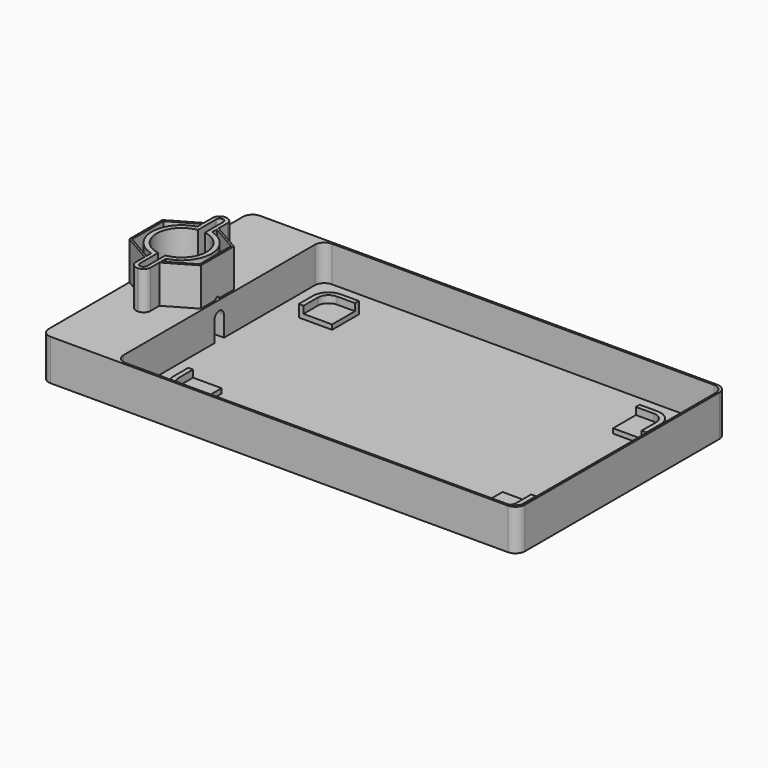
from build123d import *

# Parameters (mm, degrees)
F0_R      = 5
F1_DEPTH  = 2.2
F2_DEPTH  = 17.2
F4_DEPTH  = 20
F5_DEPTH  = 15.2
F7_DEPTH  = 16
F9_DEPTH  = 2
F10_DEPTH = 5
F12_DEPTH = 16
F14_DEPTH = 28


with BuildPart() as f1:
    # F0 (on Top) → F1 (new body)
    with BuildSketch(Plane.XY):
        with BuildLine():
            Line((-196, 0), (-4, 0))
            ThreePointArc((-4, 0), (-1.1715728753, 1.1715728753), (0, 4))
            Line((0, 4), (0, 106))
            ThreePointArc((0, 106), (-1.1715728753, 108.8284271247), (-4, 110))
            Line((-4, 110), (-196, 110))
            ThreePointArc((-196, 110), (-198.8284271247, 108.8284271247), (-200, 106))
            Line((-200, 106), (-200, 4))
            ThreePointArc((-200, 4), (-198.8284271247, 1.1715728753), (-196, 0))
        make_face()
        with BuildLine():
            Line((-170, 105.2), (-170, 59.5))
            Line((-170, 59.5), (-170, 50.5))
            Line((-170, 50.5), (-170, 4.8))
            ThreePointArc((-170, 4.8), (-171.1715728753, 1.9715728753), (-174, 0.8))
            Line((-174, 0.8), (-195.2, 0.8))
            ThreePointArc((-195.2, 0.8), (-198.0284271247, 1.9715728753), (-199.2, 4.8))
            Line((-199.2, 4.8), (-199.2, 105.2))
            ThreePointArc((-199.2, 105.2), (-198.0284271247, 108.0284271247), (-195.2, 109.2))
            Line((-195.2, 109.2), (-174, 109.2))
            ThreePointArc((-174, 109.2), (-171.1715728753, 108.0284271247), (-170, 105.2))
        make_face(mode=Mode.SUBTRACT)
        with BuildLine():
            ThreePointArc((-4.8, 109.2), (-1.9715728753, 108.0284271247), (-0.8, 105.2))
            Line((-0.8, 105.2), (-0.8, 4.8))
            ThreePointArc((-0.8, 4.8), (-1.9715728753, 1.9715728753), (-4.8, 0.8))
            Line((-4.8, 0.8), (-165.2, 0.8))
            ThreePointArc((-165.2, 0.8), (-168.0284271247, 1.9715728753), (-169.2, 4.8))
            Line((-169.2, 4.8), (-169.2, 105.2))
            ThreePointArc((-169.2, 105.2), (-168.0284271247, 108.0284271247), (-165.2, 109.2))
            Line((-165.2, 109.2), (-4.8, 109.2))
        make_face(mode=Mode.SUBTRACT)
        with BuildLine():
            Line((-0.8, 4.8), (-0.8, 105.2))
            ThreePointArc((-0.8, 105.2), (-1.9715728753, 108.0284271247), (-4.8, 109.2))
            Line((-4.8, 109.2), (-165.2, 109.2))
            ThreePointArc((-165.2, 109.2), (-168.0284271247, 108.0284271247), (-169.2, 105.2))
            Line((-169.2, 105.2), (-169.2, 4.8))
            ThreePointArc((-169.2, 4.8), (-168.0284271247, 1.9715728753), (-165.2, 0.8))
            Line((-165.2, 0.8), (-4.8, 0.8))
            ThreePointArc((-4.8, 0.8), (-1.9715728753, 1.9715728753), (-0.8, 4.8))
        make_face()
        with BuildLine():
            ThreePointArc((-179.6380973526, 50.5), (-192, 55), (-179.6380973526, 59.5))
            Line((-179.6380973526, 59.5), (-170, 59.5))
            Line((-170, 59.5), (-170, 105.2))
            ThreePointArc((-170, 105.2), (-171.1715728753, 108.0284271247), (-174, 109.2))
            Line((-174, 109.2), (-195.2, 109.2))
            ThreePointArc((-195.2, 109.2), (-198.0284271247, 108.0284271247), (-199.2, 105.2))
            Line((-199.2, 105.2), (-199.2, 4.8))
            ThreePointArc((-199.2, 4.8), (-198.0284271247, 1.9715728753), (-195.2, 0.8))
            Line((-195.2, 0.8), (-174, 0.8))
            ThreePointArc((-174, 0.8), (-171.1715728753, 1.9715728753), (-170, 4.8))
            Line((-170, 4.8), (-170, 50.5))
            Line((-170, 50.5), (-179.6380973526, 50.5))
        make_face()
        with BuildLine():
            ThreePointArc((-179.6380973526, 50.5), (-192, 55), (-179.6380973526, 59.5))
            Line((-179.6380973526, 59.5), (-170, 59.5))
            Line((-170, 59.5), (-170, 105.2))
            ThreePointArc((-170, 105.2), (-171.1715728753, 108.0284271247), (-174, 109.2))
            Line((-174, 109.2), (-195.2, 109.2))
            ThreePointArc((-195.2, 109.2), (-198.0284271247, 108.0284271247), (-199.2, 105.2))
            Line((-199.2, 105.2), (-199.2, 4.8))
            ThreePointArc((-199.2, 4.8), (-198.0284271247, 1.9715728753), (-195.2, 0.8))
            Line((-195.2, 0.8), (-174, 0.8))
            ThreePointArc((-174, 0.8), (-171.1715728753, 1.9715728753), (-170, 4.8))
            Line((-170, 4.8), (-170, 50.5))
            Line((-170, 50.5), (-179.6380973526, 50.5))
        make_face()
        with BuildLine():
            ThreePointArc((-179.6380973526, 50.5), (-178.4222603224, 52.6055604551), (-178, 55))
            ThreePointArc((-178, 55), (-178.4222603224, 57.3944395449), (-179.6380973526, 59.5))
            ThreePointArc((-179.6380973526, 59.5), (-192, 55), (-179.6380973526, 50.5))
        make_face()
        with Locations((-185, 55)):
            Circle(F0_R, mode=Mode.SUBTRACT)
        with Locations((-185, 55)):
            Circle(F0_R)
        with BuildLine():
            ThreePointArc((-179.6380973526, 59.5), (-178.4222603224, 57.3944395449), (-178, 55))
            ThreePointArc((-178, 55), (-178.4222603224, 52.6055604551), (-179.6380973526, 50.5))
            Line((-179.6380973526, 50.5), (-170, 50.5))
            Line((-170, 50.5), (-170, 59.5))
            Line((-170, 59.5), (-179.6380973526, 59.5))
        make_face()
    extrude(amount=F1_DEPTH)

    # F0 (on Top) → F2 (join)
    with BuildSketch(Plane.XY):
        with BuildLine():
            Line((-196, 0), (-4, 0))
            ThreePointArc((-4, 0), (-1.1715728753, 1.1715728753), (0, 4))
            Line((0, 4), (0, 106))
            ThreePointArc((0, 106), (-1.1715728753, 108.8284271247), (-4, 110))
            Line((-4, 110), (-196, 110))
            ThreePointArc((-196, 110), (-198.8284271247, 108.8284271247), (-200, 106))
            Line((-200, 106), (-200, 4))
            ThreePointArc((-200, 4), (-198.8284271247, 1.1715728753), (-196, 0))
        make_face()
        with BuildLine():
            Line((-170, 105.2), (-170, 59.5))
            Line((-170, 59.5), (-170, 50.5))
            Line((-170, 50.5), (-170, 4.8))
            ThreePointArc((-170, 4.8), (-171.1715728753, 1.9715728753), (-174, 0.8))
            Line((-174, 0.8), (-195.2, 0.8))
            ThreePointArc((-195.2, 0.8), (-198.0284271247, 1.9715728753), (-199.2, 4.8))
            Line((-199.2, 4.8), (-199.2, 105.2))
            ThreePointArc((-199.2, 105.2), (-198.0284271247, 108.0284271247), (-195.2, 109.2))
            Line((-195.2, 109.2), (-174, 109.2))
            ThreePointArc((-174, 109.2), (-171.1715728753, 108.0284271247), (-170, 105.2))
        make_face(mode=Mode.SUBTRACT)
        with BuildLine():
            ThreePointArc((-4.8, 109.2), (-1.9715728753, 108.0284271247), (-0.8, 105.2))
            Line((-0.8, 105.2), (-0.8, 4.8))
            ThreePointArc((-0.8, 4.8), (-1.9715728753, 1.9715728753), (-4.8, 0.8))
            Line((-4.8, 0.8), (-165.2, 0.8))
            ThreePointArc((-165.2, 0.8), (-168.0284271247, 1.9715728753), (-169.2, 4.8))
            Line((-169.2, 4.8), (-169.2, 105.2))
            ThreePointArc((-169.2, 105.2), (-168.0284271247, 108.0284271247), (-165.2, 109.2))
            Line((-165.2, 109.2), (-4.8, 109.2))
        make_face(mode=Mode.SUBTRACT)
        with BuildLine():
            ThreePointArc((-179.6380973526, 50.5), (-178.4222603224, 52.6055604551), (-178, 55))
            ThreePointArc((-178, 55), (-178.4222603224, 57.3944395449), (-179.6380973526, 59.5))
            ThreePointArc((-179.6380973526, 59.5), (-192, 55), (-179.6380973526, 50.5))
        make_face()
        with Locations((-185, 55)):
            Circle(F0_R, mode=Mode.SUBTRACT)
        with BuildLine():
            ThreePointArc((-179.6380973526, 50.5), (-192, 55), (-179.6380973526, 59.5))
            Line((-179.6380973526, 59.5), (-170, 59.5))
            Line((-170, 59.5), (-170, 105.2))
            ThreePointArc((-170, 105.2), (-171.1715728753, 108.0284271247), (-174, 109.2))
            Line((-174, 109.2), (-195.2, 109.2))
            ThreePointArc((-195.2, 109.2), (-198.0284271247, 108.0284271247), (-199.2, 105.2))
            Line((-199.2, 105.2), (-199.2, 4.8))
            ThreePointArc((-199.2, 4.8), (-198.0284271247, 1.9715728753), (-195.2, 0.8))
            Line((-195.2, 0.8), (-174, 0.8))
            ThreePointArc((-174, 0.8), (-171.1715728753, 1.9715728753), (-170, 4.8))
            Line((-170, 4.8), (-170, 50.5))
            Line((-170, 50.5), (-179.6380973526, 50.5))
        make_face()
        with BuildLine():
            ThreePointArc((-179.6380973526, 59.5), (-178.4222603224, 57.3944395449), (-178, 55))
            ThreePointArc((-178, 55), (-178.4222603224, 52.6055604551), (-179.6380973526, 50.5))
            Line((-179.6380973526, 50.5), (-170, 50.5))
            Line((-170, 50.5), (-170, 59.5))
            Line((-170, 59.5), (-179.6380973526, 59.5))
        make_face()
    extrude(amount=F2_DEPTH)

    # F3 (on face) → F4 (cut)
    with BuildSketch(Plane.YZ.offset(-169.2)):
        with BuildLine():
            Line((52.5, 2.2), (57.5, 2.2))
            Line((57.5, 2.2), (57.5, 10.7))
            ThreePointArc((57.5, 10.7), (56.767766953, 12.467766953), (55, 13.2))
            ThreePointArc((55, 13.2), (53.232233047, 12.467766953), (52.5, 10.7))
            Line((52.5, 10.7), (52.5, 2.2))
        make_face()
    extrude(amount=-F4_DEPTH, mode=Mode.SUBTRACT)

    # F0 (on Top) → F5 (cut)
    with BuildSketch(Plane.XY):
        with BuildLine():
            ThreePointArc((-179.6380973526, 50.5), (-192, 55), (-179.6380973526, 59.5))
            Line((-179.6380973526, 59.5), (-170, 59.5))
            Line((-170, 59.5), (-170, 105.2))
            ThreePointArc((-170, 105.2), (-171.1715728753, 108.0284271247), (-174, 109.2))
            Line((-174, 109.2), (-195.2, 109.2))
            ThreePointArc((-195.2, 109.2), (-198.0284271247, 108.0284271247), (-199.2, 105.2))
            Line((-199.2, 105.2), (-199.2, 4.8))
            ThreePointArc((-199.2, 4.8), (-198.0284271247, 1.9715728753), (-195.2, 0.8))
            Line((-195.2, 0.8), (-174, 0.8))
            ThreePointArc((-174, 0.8), (-171.1715728753, 1.9715728753), (-170, 4.8))
            Line((-170, 4.8), (-170, 50.5))
            Line((-170, 50.5), (-179.6380973526, 50.5))
        make_face()
    extrude(amount=F5_DEPTH, mode=Mode.SUBTRACT)

    # F6 (on face) → F7 (join)
    with BuildSketch(Plane.XY.offset(17.2)):
        with BuildLine():
            ThreePointArc((-186.5, 44.6076951546), (-195.5, 55), (-186.5, 65.3923048454))
            Line((-186.5, 65.3923048454), (-186.5, 67.409673646))
            ThreePointArc((-186.5, 67.409673646), (-187.3048917532, 67.2856613174), (-188.1, 67.1095004026))
            ThreePointArc((-188.1, 67.1095004026), (-197.5, 55), (-188.1, 42.8904995974))
            ThreePointArc((-188.1, 42.8904995974), (-187.3048917532, 42.7143386826), (-186.5, 42.590326354))
            Line((-186.5, 42.590326354), (-186.5, 44.6076951546))
        make_face()
        with BuildLine():
            Line((-183.5, 75), (-183.5, 67.409673646))
            ThreePointArc((-183.5, 67.409673646), (-182.6951082468, 67.2856613174), (-181.9, 67.1095004026))
            Line((-181.9, 67.1095004026), (-181.9, 75.1))
            ThreePointArc((-181.9, 75.1), (-182.7786796564, 77.2213203436), (-184.9, 78.1))
            Line((-184.9, 78.1), (-185.1, 78.1))
            ThreePointArc((-185.1, 78.1), (-187.2213203436, 77.2213203436), (-188.1, 75.1))
            Line((-188.1, 75.1), (-188.1, 67.1095004026))
            ThreePointArc((-188.1, 67.1095004026), (-187.3048917532, 67.2856613174), (-186.5, 67.409673646))
            Line((-186.5, 67.409673646), (-186.5, 75))
            ThreePointArc((-186.5, 75), (-186.0606601718, 76.0606601718), (-185, 76.5))
            ThreePointArc((-185, 76.5), (-183.9393398282, 76.0606601718), (-183.5, 75))
        make_face()
        with BuildLine():
            ThreePointArc((-183.5, 65.3923048454), (-177.0627460668, 61.8738635424), (-174.5, 55))
            ThreePointArc((-174.5, 55), (-177.0627460668, 48.1261364576), (-183.5, 44.6076951546))
            Line((-183.5, 44.6076951546), (-183.5, 42.590326354))
            ThreePointArc((-183.5, 42.590326354), (-182.6951082468, 42.7143386826), (-181.9, 42.8904995974))
            ThreePointArc((-181.9, 42.8904995974), (-175.1257911709, 47.3351451416), (-172.5, 55))
            ThreePointArc((-172.5, 55), (-175.1257911709, 62.6648548584), (-181.9, 67.1095004026))
            ThreePointArc((-181.9, 67.1095004026), (-182.6951082468, 67.2856613174), (-183.5, 67.409673646))
            Line((-183.5, 67.409673646), (-183.5, 65.3923048454))
        make_face()
        with BuildLine():
            ThreePointArc((-181.9, 42.8904995974), (-182.6951082468, 42.7143386826), (-183.5, 42.590326354))
            Line((-183.5, 42.590326354), (-183.5, 35))
            ThreePointArc((-183.5, 35), (-183.9393398282, 33.9393398282), (-185, 33.5))
            ThreePointArc((-185, 33.5), (-186.0606601718, 33.9393398282), (-186.5, 35))
            Line((-186.5, 35), (-186.5, 42.590326354))
            ThreePointArc((-186.5, 42.590326354), (-187.3048917532, 42.7143386826), (-188.1, 42.8904995974))
            Line((-188.1, 42.8904995974), (-188.1, 34.9))
            ThreePointArc((-188.1, 34.9), (-187.2213203436, 32.7786796564), (-185.1, 31.9))
            Line((-185.1, 31.9), (-184.9, 31.9))
            ThreePointArc((-184.9, 31.9), (-182.7786796564, 32.7786796564), (-181.9, 34.9))
            Line((-181.9, 34.9), (-181.9, 42.8904995974))
        make_face()
    extrude(amount=F7_DEPTH)

    # F8 (on face) → F9 (join)
    with BuildSketch(Plane.XY.offset(2.2)):
        with BuildLine():
            Line((-157, 84), (-145, 84))
            Line((-145, 84), (-145, 96))
            Line((-145, 96), (-152.5, 96))
            ThreePointArc((-152.5, 96), (-155.6819805153, 94.6819805153), (-157, 91.5))
            Line((-157, 91.5), (-157, 84))
        make_face()
        with BuildLine():
            Line((-19.5, 96), (-27, 96))
            Line((-27, 96), (-27, 84))
            Line((-27, 84), (-15, 84))
            Line((-15, 84), (-15, 91.5))
            ThreePointArc((-15, 91.5), (-16.3180194847, 94.6819805153), (-19.5, 96))
        make_face()
        with BuildLine():
            Line((-15, 26), (-27, 26))
            Line((-27, 26), (-27, 14))
            Line((-27, 14), (-19.5, 14))
            ThreePointArc((-19.5, 14), (-16.3180194847, 15.3180194847), (-15, 18.5))
            Line((-15, 18.5), (-15, 26))
        make_face()
        with BuildLine():
            Line((-145, 14), (-145, 26))
            Line((-145, 26), (-157, 26))
            Line((-157, 26), (-157, 18.5))
            ThreePointArc((-157, 18.5), (-155.6819805153, 15.3180194847), (-152.5, 14))
            Line((-152.5, 14), (-145, 14))
        make_face()
    extrude(amount=F9_DEPTH)

    # F8 (on face) → F10 (join)
    with BuildSketch(Plane.XY.offset(2.2)):
        with BuildLine():
            Line((-159, 84), (-157, 84))
            Line((-157, 84), (-157, 91.5))
            ThreePointArc((-157, 91.5), (-155.6819805153, 94.6819805153), (-152.5, 96))
            Line((-152.5, 96), (-145, 96))
            Line((-145, 96), (-145, 98))
            Line((-145, 98), (-152.5, 98))
            ThreePointArc((-152.5, 98), (-157.0961940777, 96.0961940777), (-159, 91.5))
            Line((-159, 91.5), (-159, 84))
        make_face()
        with BuildLine():
            Line((-157, 18.5), (-157, 26))
            Line((-157, 26), (-159, 26))
            Line((-159, 26), (-159, 18.5))
            ThreePointArc((-159, 18.5), (-157.0961940777, 13.9038059223), (-152.5, 12))
            Line((-152.5, 12), (-145, 12))
            Line((-145, 12), (-145, 14))
            Line((-145, 14), (-152.5, 14))
            ThreePointArc((-152.5, 14), (-155.6819805153, 15.3180194847), (-157, 18.5))
        make_face()
        with BuildLine():
            Line((-13, 26), (-15, 26))
            Line((-15, 26), (-15, 18.5))
            ThreePointArc((-15, 18.5), (-16.3180194847, 15.3180194847), (-19.5, 14))
            Line((-19.5, 14), (-27, 14))
            Line((-27, 14), (-27, 12))
            Line((-27, 12), (-19.5, 12))
            ThreePointArc((-19.5, 12), (-14.9038059223, 13.9038059223), (-13, 18.5))
            Line((-13, 18.5), (-13, 26))
        make_face()
        with BuildLine():
            Line((-27, 98), (-27, 96))
            Line((-27, 96), (-19.5, 96))
            ThreePointArc((-19.5, 96), (-16.3180194847, 94.6819805153), (-15, 91.5))
            Line((-15, 91.5), (-15, 84))
            Line((-15, 84), (-13, 84))
            Line((-13, 84), (-13, 91.5))
            ThreePointArc((-13, 91.5), (-14.9038059223, 96.0961940777), (-19.5, 98))
            Line((-19.5, 98), (-27, 98))
        make_face()
    extrude(amount=F10_DEPTH)

    # F11 (on face) → F12 (join)
    with BuildSketch(Plane.XY.offset(17.2)):
        Polygon((-200, 63.6602540378), (-200, 46.3397459622), (-188.1, 39.4692777588), (-188.1, 40.3930381895), (-199.2, 46.8016261775), (-199.2, 63.1983738225), (-188.1, 69.6069618105), (-188.1, 70.5307222412), align=None)
        Polygon((-181.9, 40.3930381895), (-181.9, 39.4692777588), (-170, 46.3397459622), (-170, 63.6602540378), (-181.9, 70.5307222412), (-181.9, 69.6069618105), (-170.8, 63.1983738225), (-170.8, 46.8016261775), align=None)
    extrude(amount=F12_DEPTH)

    # F13 (on face) → F14 (cut)
    with BuildSketch(Plane.YZ.offset(-170)):
        with BuildLine():
            Line((54.0046448451, 17.2), (55.9953551549, 17.2))
            ThreePointArc((55.9953551549, 17.2), (55, 18.1037289471), (54.0046448451, 17.2))
        make_face()
    extrude(amount=-F14_DEPTH, mode=Mode.SUBTRACT)


solid = f1.part
